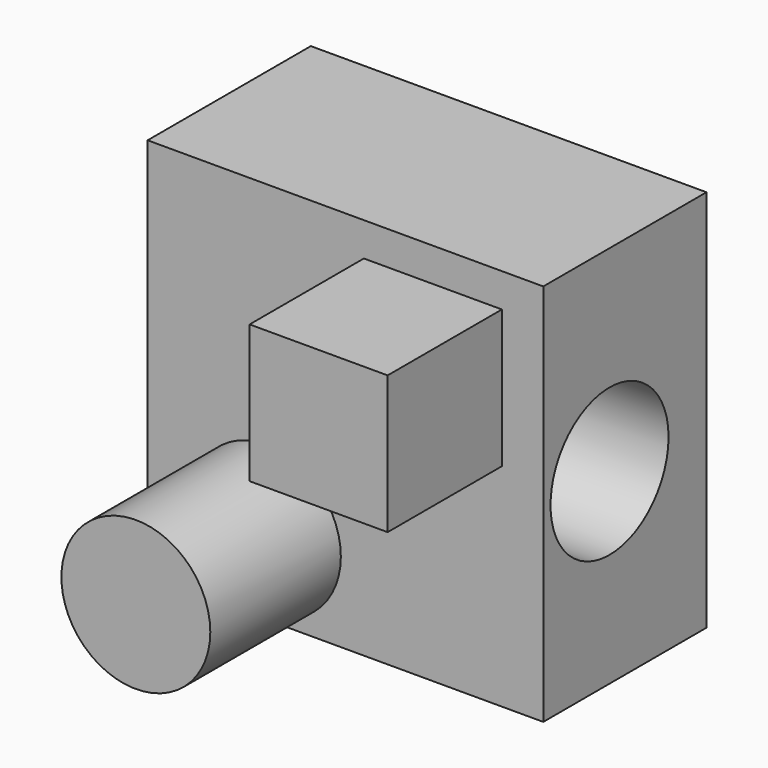
from build123d import *

# Parameters (mm, degrees)
F0_W     = 49.266301
F0_H     = 47.738668
F1_DEPTH = 25.4
F2_W     = 17.185921
F2_H     = 17.185918
F3_DEPTH = 17.78
F4_R     = 9.270667
F5_DEPTH = 20.32
F6_R     = 9.183708
F7_DEPTH = 50.8


with BuildPart() as f1:
    # F0 (on Front) → F1 (new body)
    with BuildSketch(Plane.XZ):
        with Locations((4.010047, 0.572864)):
            Rectangle(F0_W, F0_H)
    extrude(amount=F1_DEPTH)

    # F2 (on face) → F3 (join)
    with BuildSketch(Plane.XZ.offset(25.4)):
        with Locations((14.894463, 11.648234)):
            Rectangle(F2_W, F2_H)
    extrude(amount=F3_DEPTH)

    # F4 (on face) → F5 (join)
    with BuildSketch(Plane.XZ.offset(25.4)):
        with Locations((-5.833408, -13.375082)):
            Circle(F4_R)
    extrude(amount=F5_DEPTH)

    # F6 (on face) → F7 (cut)
    with BuildSketch(Plane.YZ.offset(28.643198)):
        with Locations((-15.085418, 0)):
            Circle(F6_R)
    extrude(amount=-F7_DEPTH, mode=Mode.SUBTRACT)


solid = f1.part
